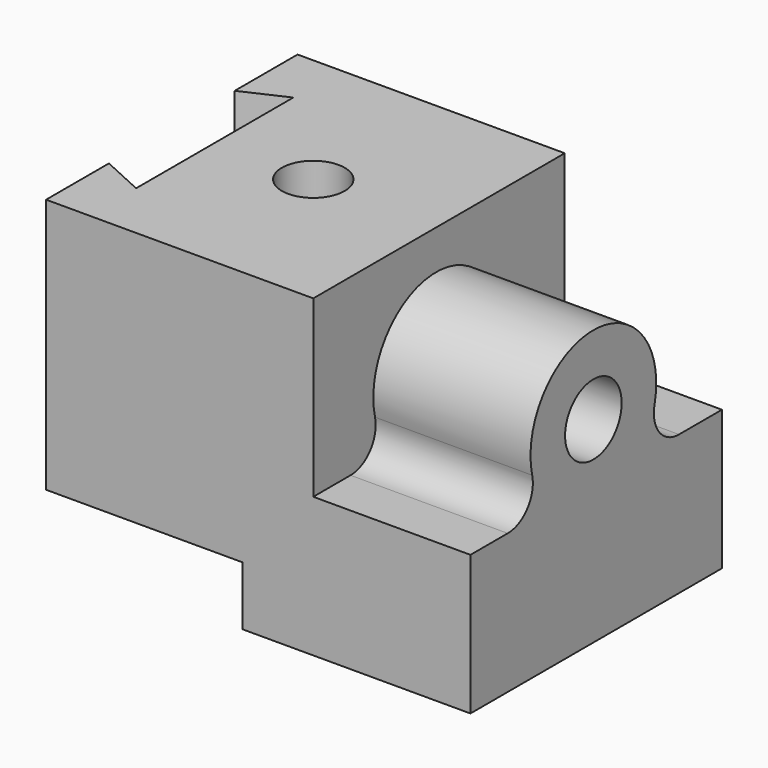
from build123d import *

# Parameters (mm, degrees)
F1_DEPTH  = 2032
F3_DEPTH  = 1651
F4_R      = 203.2
F5_DEPTH  = 1651
F7_DEPTH  = 1016
F8_R      = 203.2
F9_R      = 203.2
F10_R     = 228.6
F11_DEPTH = 1016
F12_R     = 228.6
F13_DEPTH = 1016


with BuildPart() as f1:
    # F0 (on Front) → F1 (new body)
    with BuildSketch(Plane.XZ):
        Polygon((-239.7515, -1176.64908), (1233.4485, -1176.64908), (1233.4485, -273.796841), (217.4485, -273.796841), (217.4485, 855.35092), (-1509.7515, 855.35092), (-1509.7515, -795.64908), (-239.7515, -795.64908), align=None)
    extrude(amount=-F1_DEPTH)

    # F2 (on face) → F3 (cut)
    with BuildSketch(Plane.XY.offset(855.35092)):
        Polygon((-1232.670212, 381), (-1232.670212, 1651), (-1509.7515, 1524), (-1509.7515, 2032), (-2309.389114, 1178.267121), (-2251.436472, 691.465914), (-1509.7515, 0), (-1509.7515, 508), align=None)
    extrude(amount=-F3_DEPTH, mode=Mode.SUBTRACT)

    # F4 (on face) → F5 (cut)
    with BuildSketch(Plane.XY.offset(855.35092)):
        with Locations((-595.3515, 1016)):
            Circle(F4_R)
    extrude(amount=-F5_DEPTH, mode=Mode.SUBTRACT)

    # F6 (on face) → F7 (join)
    with BuildSketch(Plane.YZ.offset(1233.4485)):
        with BuildLine():
            ThreePointArc((485.209048, 93.35092), (993.209048, -414.64908), (1501.209048, 93.35092))
            ThreePointArc((1501.209048, 93.35092), (993.209048, 601.35092), (485.209048, 93.35092))
        make_face()
    extrude(amount=-F7_DEPTH)

    # F8
    f8_edges = [f1.edges().sort_by_distance(p)[0] for p in [
        (725.4485, 1344.302372, -273.796841),
    ]]
    fillet(f8_edges, radius=F8_R)

    # F9
    f9_edges = [f1.edges().sort_by_distance(p)[0] for p in [
        (725.4485, 642.115724, -273.796841),
    ]]
    fillet(f9_edges, radius=F9_R)

    # F10 (on face) → F11 (join)
    with BuildSketch(Plane.YZ.offset(1233.4485)):
        with Locations((993.209048, 93.35092)):
            Circle(F10_R)
    extrude(amount=-F11_DEPTH)

    # F12 (on face) → F13 (cut)
    with BuildSketch(Plane.YZ.offset(1233.4485)):
        with Locations((993.209048, 93.35092)):
            Circle(F12_R)
    extrude(amount=-F13_DEPTH, mode=Mode.SUBTRACT)


solid = f1.part
